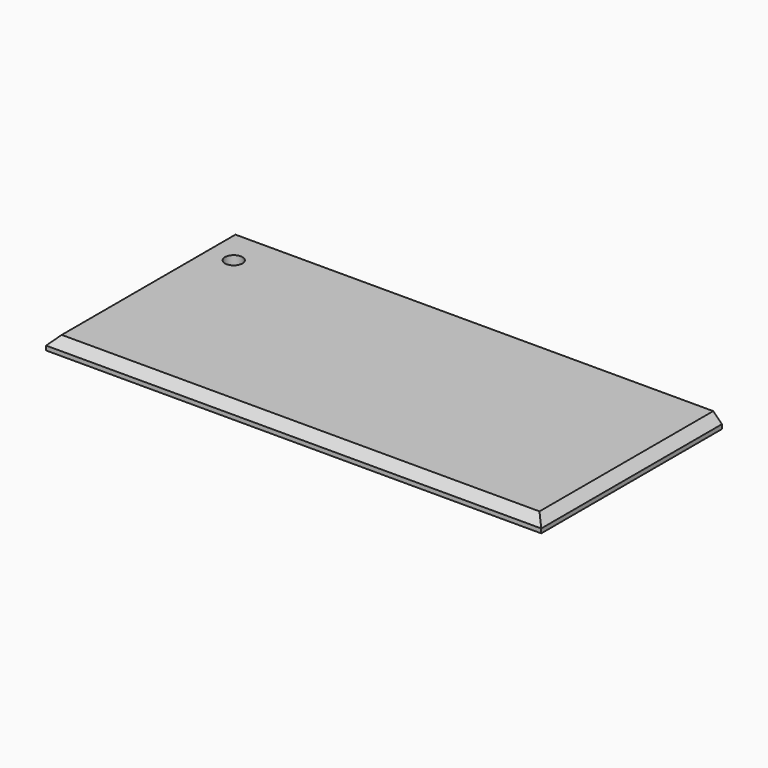
from build123d import *

# Parameters (mm, degrees)
F0_W     = 723.9
F0_H     = 330.2
F1_DEPTH = 19.05
F2_SIZE  = 12.7
F3_D     = 25.4


with BuildPart() as f1:
    # F0 (on Top) → F1 (new body)
    with BuildSketch(Plane.XY):
        with Locations((33.9713070929, -3.6599552712)):
            Rectangle(F0_W, F0_H)
    extrude(amount=F1_DEPTH)

    # F2
    f2_edges = [f1.edges().sort_by_distance(p)[0] for p in [
        (395.921307, -3.659955, 19.05),
        (-327.978693, -3.659955, 19.05),
        (33.971307, -168.759955, 19.05),
    ]]
    chamfer(f2_edges, length=F2_SIZE)

    # F3 (through all)
    with Locations(Plane(origin=(0, 0, 0), x_dir=(1, 0, 0), z_dir=(0, 0, -1))):
        with Locations((-277.1786929071, -110.6400447288)):
            Hole(F3_D / 2)


solid = f1.part
